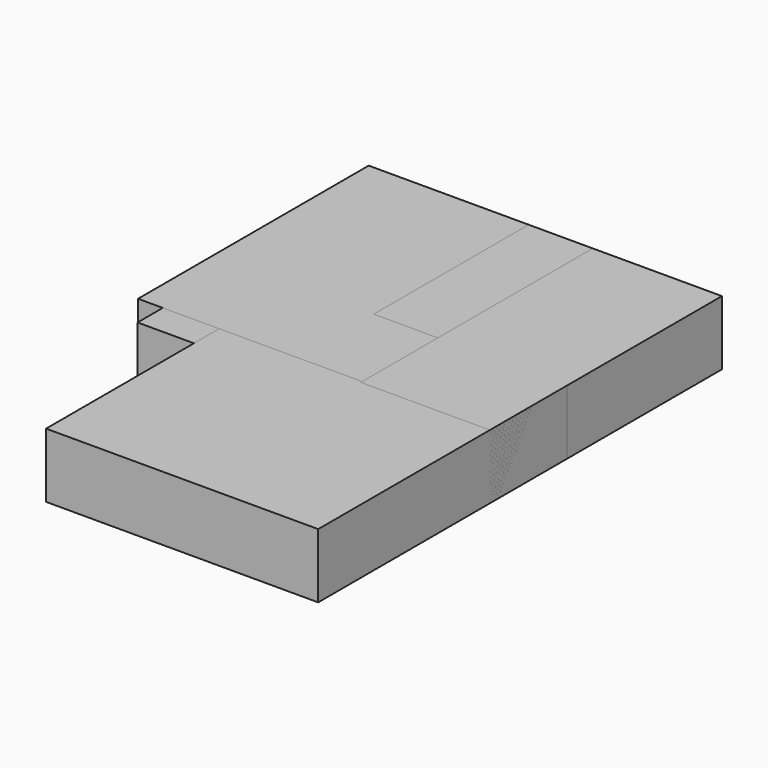
from build123d import *

# Parameters (mm, degrees)
SKETCH008_W  = 50.923298
SKETCH008_H  = 49.592381
PAD008_DEPTH = 10
SKETCH_W     = 34.929359
SKETCH_H     = 20.486658
PAD_DEPTH    = 10
SKETCH012_W  = 29.960587
SKETCH012_H  = 30.027189
PAD012_DEPTH = 10
SKETCH011_W  = 54.766457
SKETCH011_H  = 44.701084
PAD011_DEPTH = 10
SKETCH010_W  = 49.87516
SKETCH010_H  = 40.159164
PAD010_DEPTH = 10
SKETCH009_W  = 29.960587
SKETCH009_H  = 30.027189
PAD009_DEPTH = 10
SKETCH006_W  = 49.87516
SKETCH006_H  = 40.159164
PAD006_DEPTH = 10
SKETCH004_W  = 42.188831
SKETCH004_H  = 78.241425
PAD004_DEPTH = 10
SKETCH003_W  = 54.766457
SKETCH003_H  = 44.701084
PAD003_DEPTH = 10
SKETCH002_W  = 29.960587
SKETCH002_H  = 30.027189
PAD002_DEPTH = 10
SKETCH001_W  = 20.015697
SKETCH001_H  = 44.976456
PAD001_DEPTH = 10


with BuildPart() as body008:
    # Sketch008 → Pad008 (new body)
    with BuildSketch(Plane.XY):
        with Locations((25.461649, 24.79619)):
            Rectangle(SKETCH008_W, SKETCH008_H)
    extrude(amount=PAD008_DEPTH)


with BuildPart() as body008_1:
    # Body008 placement: moved
    add(body008.part.moved(Location((-50.923298, -49.592381, 0))))


with BuildPart() as body:
    # Sketch → Pad (new body)
    with BuildSketch(Plane.XY):
        with Locations((17.464679, 10.243329)):
            Rectangle(SKETCH_W, SKETCH_H)
    extrude(amount=PAD_DEPTH)


with BuildPart() as body_1:
    # Body placement: moved
    add(body.part.moved(Location((-34.929359, -20.486658, 0))))


with BuildPart() as body012:
    # Sketch012 → Pad012 (new body)
    with BuildSketch(Plane.XY):
        with Locations((14.980294, 15.013594)):
            Rectangle(SKETCH012_W, SKETCH012_H)
    extrude(amount=PAD012_DEPTH)


with BuildPart() as body012_1:
    # Body012 placement: moved
    add(body012.part.moved(Location((-29.960587, -30.027189, 0))))


with BuildPart() as body011:
    # Sketch011 → Pad011 (new body)
    with BuildSketch(Plane.XY):
        with Locations((27.383228, 22.350542)):
            Rectangle(SKETCH011_W, SKETCH011_H)
    extrude(amount=PAD011_DEPTH)


with BuildPart() as body011_1:
    # Body011 placement: moved
    add(body011.part.moved(Location((-54.766457, -44.701084, 0))))


with BuildPart() as body010:
    # Sketch010 → Pad010 (new body)
    with BuildSketch(Plane.XY):
        with Locations((24.93758, 20.079582)):
            Rectangle(SKETCH010_W, SKETCH010_H)
    extrude(amount=PAD010_DEPTH)


with BuildPart() as body010_1:
    # Body010 placement: moved
    add(body010.part.moved(Location((-49.87516, -40.159164, 0))))


with BuildPart() as body009:
    # Sketch009 → Pad009 (new body)
    with BuildSketch(Plane.XY):
        with Locations((14.980294, 15.013594)):
            Rectangle(SKETCH009_W, SKETCH009_H)
    extrude(amount=PAD009_DEPTH)


with BuildPart() as body009_1:
    # Body009 placement: moved
    add(body009.part.moved(Location((-29.960587, -30.027189, 0))))


with BuildPart() as body006:
    # Sketch006 → Pad006 (new body)
    with BuildSketch(Plane.XY):
        with Locations((24.93758, 20.079582)):
            Rectangle(SKETCH006_W, SKETCH006_H)
    extrude(amount=PAD006_DEPTH)


with BuildPart() as body006_1:
    # Body006 placement: moved
    add(body006.part.moved(Location((-49.87516, -40.159164, 0))))


with BuildPart() as body004:
    # Sketch004 → Pad004 (new body)
    with BuildSketch(Plane.XY):
        with Locations((21.094416, 39.120712)):
            Rectangle(SKETCH004_W, SKETCH004_H)
    extrude(amount=PAD004_DEPTH)


with BuildPart() as body004_1:
    # Body004 placement: moved
    add(body004.part.moved(Location((-42.188831, -78.241425, 0))))


with BuildPart() as body003:
    # Sketch003 → Pad003 (new body)
    with BuildSketch(Plane.XY):
        with Locations((27.383228, 22.350542)):
            Rectangle(SKETCH003_W, SKETCH003_H)
    extrude(amount=PAD003_DEPTH)


with BuildPart() as body003_1:
    # Body003 placement: moved
    add(body003.part.moved(Location((-54.766457, -44.701084, 0))))


with BuildPart() as body002:
    # Sketch002 → Pad002 (new body)
    with BuildSketch(Plane.XY):
        with Locations((14.980294, 15.013594)):
            Rectangle(SKETCH002_W, SKETCH002_H)
    extrude(amount=PAD002_DEPTH)


with BuildPart() as body002_1:
    # Body002 placement: moved
    add(body002.part.moved(Location((-29.960587, -30.027189, 0))))


with BuildPart() as body001:
    # Sketch001 → Pad001 (new body)
    with BuildSketch(Plane.XY):
        with Locations((10.007848, 22.488228)):
            Rectangle(SKETCH001_W, SKETCH001_H)
    extrude(amount=PAD001_DEPTH)


with BuildPart() as body001_1:
    # Body001 placement: moved
    add(body001.part.moved(Location((-20.015697, -44.976456, 0))))


solid = Compound([body008_1.part, body_1.part, body012_1.part, body011_1.part, body010_1.part, body009_1.part, body006_1.part, body004_1.part, body003_1.part, body002_1.part, body001_1.part])
